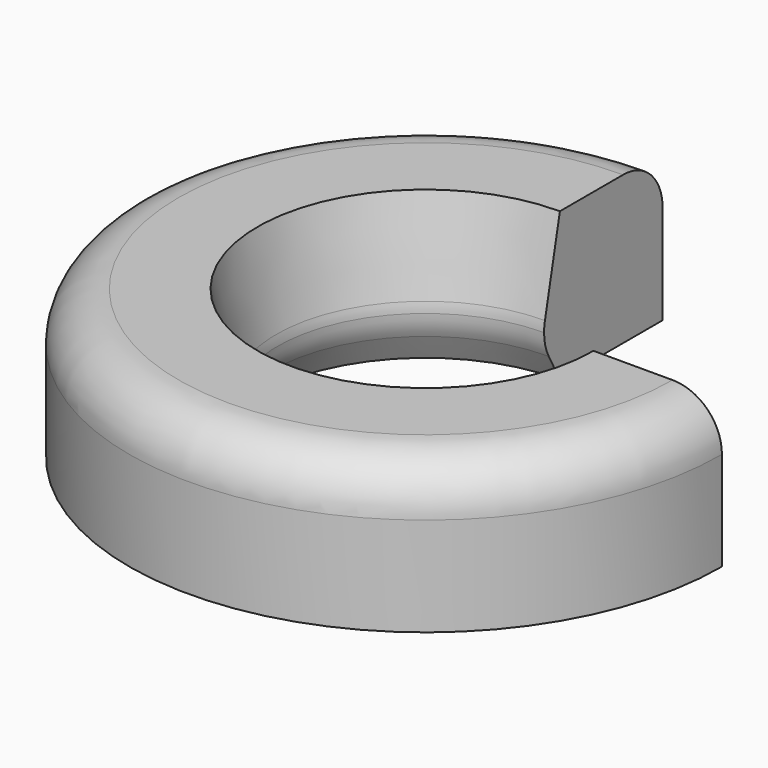
from build123d import *

# Parameters (mm, degrees)
F1_DEPTH = 1.5
F4_R     = 0.5


with BuildPart() as f1:
    # F0 (on Top) → F1 (new body)
    with BuildSketch(Plane.XY):
        with BuildLine():
            Line((0, 1.5), (0, 3))
            ThreePointArc((0, 3), (-2.12132, -2.12132), (3, 0))
            Line((3, 0), (1.5, 0))
            ThreePointArc((1.5, 0), (-1.06066, -1.06066), (0, 1.5))
        make_face()
    extrude(amount=F1_DEPTH)

    # F2 (on face) → F3 (revolve, cut)
    with BuildSketch(Plane.YZ):
        with BuildLine():
            ThreePointArc((1.558824, 0.264706), (1.514929, 0.378732), (1.5, 0.5))
            Line((1.5, 0.5), (1.5, 0))
            Line((1.5, 0), (1.7, 0))
            Line((1.7, 0), (1.558824, 0.264706))
        make_face()
        with BuildLine():
            Line((1.7, 1.5), (1.5, 1.5))
            Line((1.5, 1.5), (1.5, 0.5))
            ThreePointArc((1.5, 0.5), (1.502701, 0.551896), (1.510773, 0.603232))
            Line((1.510773, 0.603232), (1.7, 1.5))
        make_face()
    revolve(axis=Axis((0, 0, 0.75), (0, 0, 1)), mode=Mode.SUBTRACT)

    # F4
    f4_edges = [f1.edges().sort_by_distance(p)[0] for p in [
        (-2.12132, -2.12132, 1.5),
    ]]
    fillet(f4_edges, radius=F4_R)


solid = f1.part
